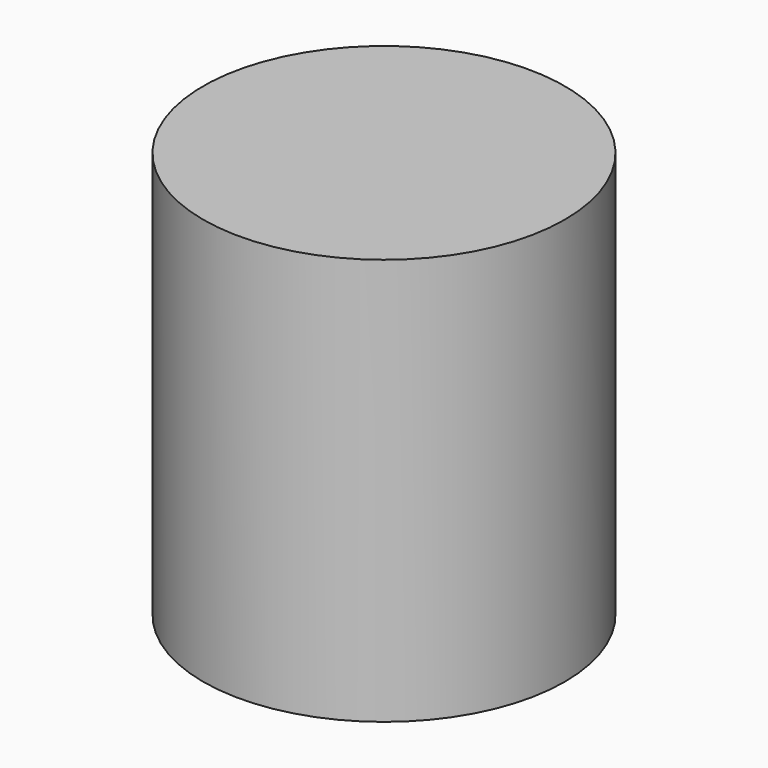
from build123d import *

# Parameters (mm, degrees)
CYLINDER_R     = 203.2
CYLINDER_DEPTH = 457.2


with BuildPart() as part:
    # Cylinder → Cylinder (new body)
    with BuildSketch(Plane.XY):
        Circle(CYLINDER_R)
    extrude(amount=CYLINDER_DEPTH)


solid = part.part
